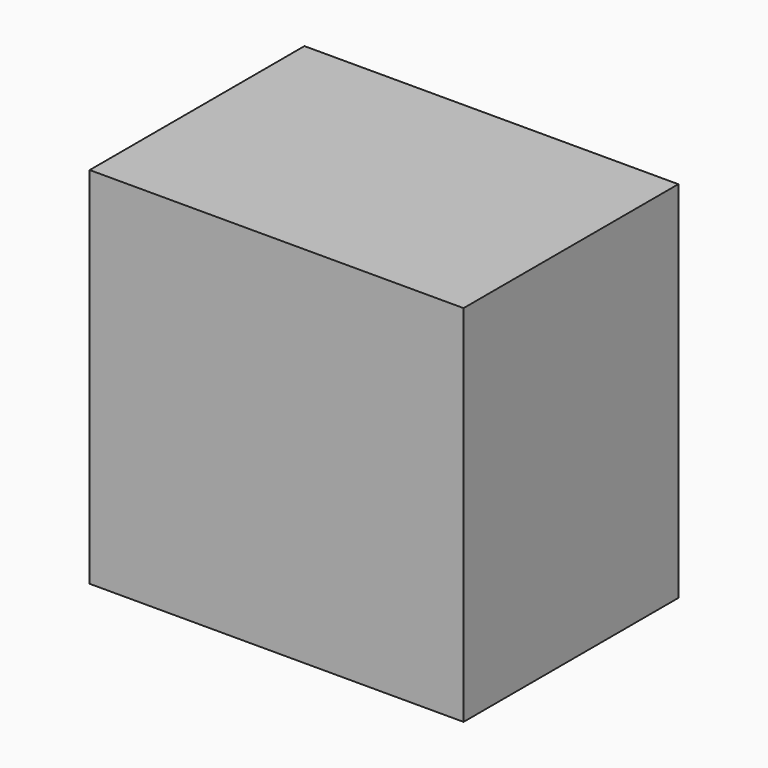
from build123d import *

# Parameters (mm, degrees)
BOX125_W     = 140
BOX125_H     = 80
BOX125_DEPTH = 190
BOX127_W     = 140
BOX127_H     = 80
BOX127_DEPTH = 180
BOX126_W     = 195
BOX126_H     = 140
BOX126_DEPTH = 190


with BuildPart() as cube097:
    # Box125 → Box125 (new body)
    with BuildSketch(Plane(origin=(220, 30, 0), x_dir=(1, 0, 0), z_dir=(0, 0, 1))):
        with Locations((70, 40)):
            Rectangle(BOX125_W, BOX125_H)
    extrude(amount=BOX125_DEPTH)


with BuildPart() as fusion025:
    # Box127 → Box127 (new body)
    with BuildSketch(Plane(origin=(30, 30, 0), x_dir=(1, 0, 0), z_dir=(0, 0, 1))):
        with Locations((70, 40)):
            Rectangle(BOX127_W, BOX127_H)
    extrude(amount=BOX127_DEPTH)

    # Fusion025: union Cube097
    add(cube097.part)


with BuildPart() as obj1:
    # Box126 → Box126 (new body)
    with BuildSketch(Plane.XY):
        with Locations((97.5, 70)):
            Rectangle(BOX126_W, BOX126_H)
    extrude(amount=BOX126_DEPTH)

    # Cut020: cut Fusion025
    add(fusion025.part, mode=Mode.SUBTRACT)


with BuildPart() as obj1_1:
    # Cut020 placement: moved
    add(obj1.part.moved(Location((740, -205, -190))))


solid = obj1_1.part
